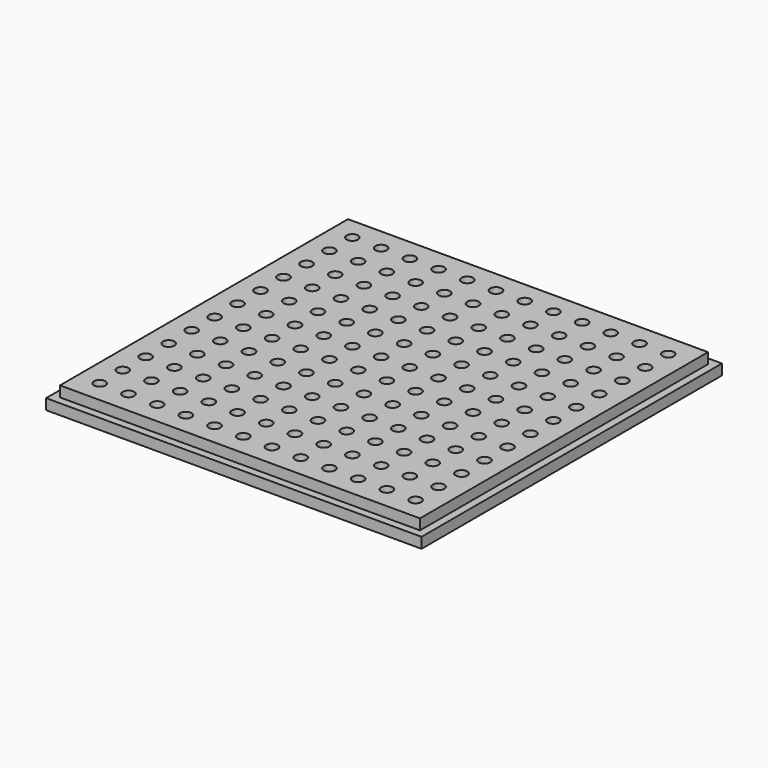
from build123d import *

# Parameters (mm, degrees)
F0_W     = 85
F0_H     = 85
F0_R     = 1.5
F1_DEPTH = 2.4
F2_W     = 85
F2_H     = 85
F3_DEPTH = 0.8
F4_W     = 81.5
F4_H     = 81.5
F4_R     = 1.3
F5_DEPTH = 2.4


with BuildPart() as f1:
    # F0 (on Top) → F1 (new body)
    with BuildSketch(Plane.XY):
        with Locations((35, 35)):
            Rectangle(F0_W, F0_H)
        with Locations((-2.5, -2.5)):
            Circle(F0_R, mode=Mode.SUBTRACT)
        with Locations((2.5, -2.5)):
            Circle(F0_R, mode=Mode.SUBTRACT)
        with Locations((-2.5, 2.5)):
            Circle(F0_R, mode=Mode.SUBTRACT)
        with Locations((2.5, 2.5)):
            Circle(F0_R, mode=Mode.SUBTRACT)
        with Locations((7.5, -2.5)):
            Circle(F0_R, mode=Mode.SUBTRACT)
        with Locations((12.5, -2.5)):
            Circle(F0_R, mode=Mode.SUBTRACT)
        with Locations((7.5, 2.5)):
            Circle(F0_R, mode=Mode.SUBTRACT)
        with Locations((12.5, 2.5)):
            Circle(F0_R, mode=Mode.SUBTRACT)
        with Locations((-2.5, 7.5)):
            Circle(F0_R, mode=Mode.SUBTRACT)
        with Locations((2.5, 7.5)):
            Circle(F0_R, mode=Mode.SUBTRACT)
        with Locations((-2.5, 12.5)):
            Circle(F0_R, mode=Mode.SUBTRACT)
        with Locations((2.5, 12.5)):
            Circle(F0_R, mode=Mode.SUBTRACT)
        with Locations((7.5, 7.5)):
            Circle(F0_R, mode=Mode.SUBTRACT)
        with Locations((12.5, 7.5)):
            Circle(F0_R, mode=Mode.SUBTRACT)
        with Locations((7.5, 12.5)):
            Circle(F0_R, mode=Mode.SUBTRACT)
        with Locations((12.5, 12.5)):
            Circle(F0_R, mode=Mode.SUBTRACT)
        with Locations((17.5, -2.5)):
            Circle(F0_R, mode=Mode.SUBTRACT)
        with Locations((22.5, -2.5)):
            Circle(F0_R, mode=Mode.SUBTRACT)
        with Locations((17.5, 2.5)):
            Circle(F0_R, mode=Mode.SUBTRACT)
        with Locations((22.5, 2.5)):
            Circle(F0_R, mode=Mode.SUBTRACT)
        with Locations((27.5, -2.5)):
            Circle(F0_R, mode=Mode.SUBTRACT)
        with Locations((32.5, -2.5)):
            Circle(F0_R, mode=Mode.SUBTRACT)
        with Locations((27.5, 2.5)):
            Circle(F0_R, mode=Mode.SUBTRACT)
        with Locations((32.5, 2.5)):
            Circle(F0_R, mode=Mode.SUBTRACT)
        with Locations((17.5, 7.5)):
            Circle(F0_R, mode=Mode.SUBTRACT)
        with Locations((22.5, 7.5)):
            Circle(F0_R, mode=Mode.SUBTRACT)
        with Locations((17.5, 12.5)):
            Circle(F0_R, mode=Mode.SUBTRACT)
        with Locations((22.5, 12.5)):
            Circle(F0_R, mode=Mode.SUBTRACT)
        with Locations((27.5, 7.5)):
            Circle(F0_R, mode=Mode.SUBTRACT)
        with Locations((32.5, 7.5)):
            Circle(F0_R, mode=Mode.SUBTRACT)
        with Locations((27.5, 12.5)):
            Circle(F0_R, mode=Mode.SUBTRACT)
        with Locations((32.5, 12.5)):
            Circle(F0_R, mode=Mode.SUBTRACT)
        with Locations((-2.5, 17.5)):
            Circle(F0_R, mode=Mode.SUBTRACT)
        with Locations((2.5, 17.5)):
            Circle(F0_R, mode=Mode.SUBTRACT)
        with Locations((-2.5, 22.5)):
            Circle(F0_R, mode=Mode.SUBTRACT)
        with Locations((2.5, 22.5)):
            Circle(F0_R, mode=Mode.SUBTRACT)
        with Locations((7.5, 17.5)):
            Circle(F0_R, mode=Mode.SUBTRACT)
        with Locations((12.5, 17.5)):
            Circle(F0_R, mode=Mode.SUBTRACT)
        with Locations((7.5, 22.5)):
            Circle(F0_R, mode=Mode.SUBTRACT)
        with Locations((12.5, 22.5)):
            Circle(F0_R, mode=Mode.SUBTRACT)
        with Locations((-2.5, 27.5)):
            Circle(F0_R, mode=Mode.SUBTRACT)
        with Locations((2.5, 27.5)):
            Circle(F0_R, mode=Mode.SUBTRACT)
        with Locations((-2.5, 32.5)):
            Circle(F0_R, mode=Mode.SUBTRACT)
        with Locations((2.5, 32.5)):
            Circle(F0_R, mode=Mode.SUBTRACT)
        with Locations((7.5, 27.5)):
            Circle(F0_R, mode=Mode.SUBTRACT)
        with Locations((12.5, 27.5)):
            Circle(F0_R, mode=Mode.SUBTRACT)
        with Locations((7.5, 32.5)):
            Circle(F0_R, mode=Mode.SUBTRACT)
        with Locations((12.5, 32.5)):
            Circle(F0_R, mode=Mode.SUBTRACT)
        with Locations((17.5, 17.5)):
            Circle(F0_R, mode=Mode.SUBTRACT)
        with Locations((22.5, 17.5)):
            Circle(F0_R, mode=Mode.SUBTRACT)
        with Locations((17.5, 22.5)):
            Circle(F0_R, mode=Mode.SUBTRACT)
        with Locations((22.5, 22.5)):
            Circle(F0_R, mode=Mode.SUBTRACT)
        with Locations((27.5, 17.5)):
            Circle(F0_R, mode=Mode.SUBTRACT)
        with Locations((32.5, 17.5)):
            Circle(F0_R, mode=Mode.SUBTRACT)
        with Locations((27.5, 22.5)):
            Circle(F0_R, mode=Mode.SUBTRACT)
        with Locations((32.5, 22.5)):
            Circle(F0_R, mode=Mode.SUBTRACT)
        with Locations((17.5, 27.5)):
            Circle(F0_R, mode=Mode.SUBTRACT)
        with Locations((22.5, 27.5)):
            Circle(F0_R, mode=Mode.SUBTRACT)
        with Locations((17.5, 32.5)):
            Circle(F0_R, mode=Mode.SUBTRACT)
        with Locations((22.5, 32.5)):
            Circle(F0_R, mode=Mode.SUBTRACT)
        with Locations((27.5, 27.5)):
            Circle(F0_R, mode=Mode.SUBTRACT)
        with Locations((32.5, 27.5)):
            Circle(F0_R, mode=Mode.SUBTRACT)
        with Locations((27.5, 32.5)):
            Circle(F0_R, mode=Mode.SUBTRACT)
        with Locations((32.5, 32.5)):
            Circle(F0_R, mode=Mode.SUBTRACT)
        with Locations((37.5, -2.5)):
            Circle(F0_R, mode=Mode.SUBTRACT)
        with Locations((42.5, -2.5)):
            Circle(F0_R, mode=Mode.SUBTRACT)
        with Locations((37.5, 2.5)):
            Circle(F0_R, mode=Mode.SUBTRACT)
        with Locations((42.5, 2.5)):
            Circle(F0_R, mode=Mode.SUBTRACT)
        with Locations((47.5, -2.5)):
            Circle(F0_R, mode=Mode.SUBTRACT)
        with Locations((52.5, -2.5)):
            Circle(F0_R, mode=Mode.SUBTRACT)
        with Locations((47.5, 2.5)):
            Circle(F0_R, mode=Mode.SUBTRACT)
        with Locations((52.5, 2.5)):
            Circle(F0_R, mode=Mode.SUBTRACT)
        with Locations((37.5, 7.5)):
            Circle(F0_R, mode=Mode.SUBTRACT)
        with Locations((42.5, 7.5)):
            Circle(F0_R, mode=Mode.SUBTRACT)
        with Locations((37.5, 12.5)):
            Circle(F0_R, mode=Mode.SUBTRACT)
        with Locations((42.5, 12.5)):
            Circle(F0_R, mode=Mode.SUBTRACT)
        with Locations((47.5, 7.5)):
            Circle(F0_R, mode=Mode.SUBTRACT)
        with Locations((52.5, 7.5)):
            Circle(F0_R, mode=Mode.SUBTRACT)
        with Locations((47.5, 12.5)):
            Circle(F0_R, mode=Mode.SUBTRACT)
        with Locations((52.5, 12.5)):
            Circle(F0_R, mode=Mode.SUBTRACT)
        with Locations((57.5, -2.5)):
            Circle(F0_R, mode=Mode.SUBTRACT)
        with Locations((62.5, -2.5)):
            Circle(F0_R, mode=Mode.SUBTRACT)
        with Locations((57.5, 2.5)):
            Circle(F0_R, mode=Mode.SUBTRACT)
        with Locations((62.5, 2.5)):
            Circle(F0_R, mode=Mode.SUBTRACT)
        with Locations((67.5, -2.5)):
            Circle(F0_R, mode=Mode.SUBTRACT)
        with Locations((72.5, -2.5)):
            Circle(F0_R, mode=Mode.SUBTRACT)
        with Locations((67.5, 2.5)):
            Circle(F0_R, mode=Mode.SUBTRACT)
        with Locations((72.5, 2.5)):
            Circle(F0_R, mode=Mode.SUBTRACT)
        with Locations((57.5, 7.5)):
            Circle(F0_R, mode=Mode.SUBTRACT)
        with Locations((62.5, 7.5)):
            Circle(F0_R, mode=Mode.SUBTRACT)
        with Locations((57.5, 12.5)):
            Circle(F0_R, mode=Mode.SUBTRACT)
        with Locations((62.5, 12.5)):
            Circle(F0_R, mode=Mode.SUBTRACT)
        with Locations((67.5, 7.5)):
            Circle(F0_R, mode=Mode.SUBTRACT)
        with Locations((72.5, 7.5)):
            Circle(F0_R, mode=Mode.SUBTRACT)
        with Locations((67.5, 12.5)):
            Circle(F0_R, mode=Mode.SUBTRACT)
        with Locations((72.5, 12.5)):
            Circle(F0_R, mode=Mode.SUBTRACT)
        with Locations((37.5, 17.5)):
            Circle(F0_R, mode=Mode.SUBTRACT)
        with Locations((42.5, 17.5)):
            Circle(F0_R, mode=Mode.SUBTRACT)
        with Locations((37.5, 22.5)):
            Circle(F0_R, mode=Mode.SUBTRACT)
        with Locations((42.5, 22.5)):
            Circle(F0_R, mode=Mode.SUBTRACT)
        with Locations((47.5, 17.5)):
            Circle(F0_R, mode=Mode.SUBTRACT)
        with Locations((52.5, 17.5)):
            Circle(F0_R, mode=Mode.SUBTRACT)
        with Locations((47.5, 22.5)):
            Circle(F0_R, mode=Mode.SUBTRACT)
        with Locations((52.5, 22.5)):
            Circle(F0_R, mode=Mode.SUBTRACT)
        with Locations((37.5, 27.5)):
            Circle(F0_R, mode=Mode.SUBTRACT)
        with Locations((42.5, 27.5)):
            Circle(F0_R, mode=Mode.SUBTRACT)
        with Locations((37.5, 32.5)):
            Circle(F0_R, mode=Mode.SUBTRACT)
        with Locations((42.5, 32.5)):
            Circle(F0_R, mode=Mode.SUBTRACT)
        with Locations((47.5, 27.5)):
            Circle(F0_R, mode=Mode.SUBTRACT)
        with Locations((52.5, 27.5)):
            Circle(F0_R, mode=Mode.SUBTRACT)
        with Locations((47.5, 32.5)):
            Circle(F0_R, mode=Mode.SUBTRACT)
        with Locations((52.5, 32.5)):
            Circle(F0_R, mode=Mode.SUBTRACT)
        with Locations((57.5, 17.5)):
            Circle(F0_R, mode=Mode.SUBTRACT)
        with Locations((62.5, 17.5)):
            Circle(F0_R, mode=Mode.SUBTRACT)
        with Locations((57.5, 22.5)):
            Circle(F0_R, mode=Mode.SUBTRACT)
        with Locations((62.5, 22.5)):
            Circle(F0_R, mode=Mode.SUBTRACT)
        with Locations((67.5, 17.5)):
            Circle(F0_R, mode=Mode.SUBTRACT)
        with Locations((72.5, 17.5)):
            Circle(F0_R, mode=Mode.SUBTRACT)
        with Locations((67.5, 22.5)):
            Circle(F0_R, mode=Mode.SUBTRACT)
        with Locations((72.5, 22.5)):
            Circle(F0_R, mode=Mode.SUBTRACT)
        with Locations((57.5, 27.5)):
            Circle(F0_R, mode=Mode.SUBTRACT)
        with Locations((62.5, 27.5)):
            Circle(F0_R, mode=Mode.SUBTRACT)
        with Locations((57.5, 32.5)):
            Circle(F0_R, mode=Mode.SUBTRACT)
        with Locations((62.5, 32.5)):
            Circle(F0_R, mode=Mode.SUBTRACT)
        with Locations((67.5, 27.5)):
            Circle(F0_R, mode=Mode.SUBTRACT)
        with Locations((72.5, 27.5)):
            Circle(F0_R, mode=Mode.SUBTRACT)
        with Locations((67.5, 32.5)):
            Circle(F0_R, mode=Mode.SUBTRACT)
        with Locations((72.5, 32.5)):
            Circle(F0_R, mode=Mode.SUBTRACT)
        with Locations((-2.5, 37.5)):
            Circle(F0_R, mode=Mode.SUBTRACT)
        with Locations((2.5, 37.5)):
            Circle(F0_R, mode=Mode.SUBTRACT)
        with Locations((-2.5, 42.5)):
            Circle(F0_R, mode=Mode.SUBTRACT)
        with Locations((2.5, 42.5)):
            Circle(F0_R, mode=Mode.SUBTRACT)
        with Locations((7.5, 37.5)):
            Circle(F0_R, mode=Mode.SUBTRACT)
        with Locations((12.5, 37.5)):
            Circle(F0_R, mode=Mode.SUBTRACT)
        with Locations((7.5, 42.5)):
            Circle(F0_R, mode=Mode.SUBTRACT)
        with Locations((12.5, 42.5)):
            Circle(F0_R, mode=Mode.SUBTRACT)
        with Locations((-2.5, 47.5)):
            Circle(F0_R, mode=Mode.SUBTRACT)
        with Locations((2.5, 47.5)):
            Circle(F0_R, mode=Mode.SUBTRACT)
        with Locations((-2.5, 52.5)):
            Circle(F0_R, mode=Mode.SUBTRACT)
        with Locations((2.5, 52.5)):
            Circle(F0_R, mode=Mode.SUBTRACT)
        with Locations((7.5, 47.5)):
            Circle(F0_R, mode=Mode.SUBTRACT)
        with Locations((12.5, 47.5)):
            Circle(F0_R, mode=Mode.SUBTRACT)
        with Locations((7.5, 52.5)):
            Circle(F0_R, mode=Mode.SUBTRACT)
        with Locations((12.5, 52.5)):
            Circle(F0_R, mode=Mode.SUBTRACT)
        with Locations((17.5, 37.5)):
            Circle(F0_R, mode=Mode.SUBTRACT)
        with Locations((22.5, 37.5)):
            Circle(F0_R, mode=Mode.SUBTRACT)
        with Locations((17.5, 42.5)):
            Circle(F0_R, mode=Mode.SUBTRACT)
        with Locations((22.5, 42.5)):
            Circle(F0_R, mode=Mode.SUBTRACT)
        with Locations((27.5, 37.5)):
            Circle(F0_R, mode=Mode.SUBTRACT)
        with Locations((32.5, 37.5)):
            Circle(F0_R, mode=Mode.SUBTRACT)
        with Locations((27.5, 42.5)):
            Circle(F0_R, mode=Mode.SUBTRACT)
        with Locations((32.5, 42.5)):
            Circle(F0_R, mode=Mode.SUBTRACT)
        with Locations((17.5, 47.5)):
            Circle(F0_R, mode=Mode.SUBTRACT)
        with Locations((22.5, 47.5)):
            Circle(F0_R, mode=Mode.SUBTRACT)
        with Locations((17.5, 52.5)):
            Circle(F0_R, mode=Mode.SUBTRACT)
        with Locations((22.5, 52.5)):
            Circle(F0_R, mode=Mode.SUBTRACT)
        with Locations((27.5, 47.5)):
            Circle(F0_R, mode=Mode.SUBTRACT)
        with Locations((32.5, 47.5)):
            Circle(F0_R, mode=Mode.SUBTRACT)
        with Locations((27.5, 52.5)):
            Circle(F0_R, mode=Mode.SUBTRACT)
        with Locations((32.5, 52.5)):
            Circle(F0_R, mode=Mode.SUBTRACT)
        with Locations((-2.5, 57.5)):
            Circle(F0_R, mode=Mode.SUBTRACT)
        with Locations((2.5, 57.5)):
            Circle(F0_R, mode=Mode.SUBTRACT)
        with Locations((-2.5, 62.5)):
            Circle(F0_R, mode=Mode.SUBTRACT)
        with Locations((2.5, 62.5)):
            Circle(F0_R, mode=Mode.SUBTRACT)
        with Locations((7.5, 57.5)):
            Circle(F0_R, mode=Mode.SUBTRACT)
        with Locations((12.5, 57.5)):
            Circle(F0_R, mode=Mode.SUBTRACT)
        with Locations((7.5, 62.5)):
            Circle(F0_R, mode=Mode.SUBTRACT)
        with Locations((12.5, 62.5)):
            Circle(F0_R, mode=Mode.SUBTRACT)
        with Locations((-2.5, 67.5)):
            Circle(F0_R, mode=Mode.SUBTRACT)
        with Locations((2.5, 67.5)):
            Circle(F0_R, mode=Mode.SUBTRACT)
        with Locations((-2.5, 72.5)):
            Circle(F0_R, mode=Mode.SUBTRACT)
        with Locations((2.5, 72.5)):
            Circle(F0_R, mode=Mode.SUBTRACT)
        with Locations((7.5, 67.5)):
            Circle(F0_R, mode=Mode.SUBTRACT)
        with Locations((12.5, 67.5)):
            Circle(F0_R, mode=Mode.SUBTRACT)
        with Locations((7.5, 72.5)):
            Circle(F0_R, mode=Mode.SUBTRACT)
        with Locations((12.5, 72.5)):
            Circle(F0_R, mode=Mode.SUBTRACT)
        with Locations((17.5, 57.5)):
            Circle(F0_R, mode=Mode.SUBTRACT)
        with Locations((22.5, 57.5)):
            Circle(F0_R, mode=Mode.SUBTRACT)
        with Locations((17.5, 62.5)):
            Circle(F0_R, mode=Mode.SUBTRACT)
        with Locations((22.5, 62.5)):
            Circle(F0_R, mode=Mode.SUBTRACT)
        with Locations((27.5, 57.5)):
            Circle(F0_R, mode=Mode.SUBTRACT)
        with Locations((32.5, 57.5)):
            Circle(F0_R, mode=Mode.SUBTRACT)
        with Locations((27.5, 62.5)):
            Circle(F0_R, mode=Mode.SUBTRACT)
        with Locations((32.5, 62.5)):
            Circle(F0_R, mode=Mode.SUBTRACT)
        with Locations((17.5, 67.5)):
            Circle(F0_R, mode=Mode.SUBTRACT)
        with Locations((22.5, 67.5)):
            Circle(F0_R, mode=Mode.SUBTRACT)
        with Locations((17.5, 72.5)):
            Circle(F0_R, mode=Mode.SUBTRACT)
        with Locations((22.5, 72.5)):
            Circle(F0_R, mode=Mode.SUBTRACT)
        with Locations((27.5, 67.5)):
            Circle(F0_R, mode=Mode.SUBTRACT)
        with Locations((32.5, 67.5)):
            Circle(F0_R, mode=Mode.SUBTRACT)
        with Locations((27.5, 72.5)):
            Circle(F0_R, mode=Mode.SUBTRACT)
        with Locations((32.5, 72.5)):
            Circle(F0_R, mode=Mode.SUBTRACT)
        with Locations((37.5, 37.5)):
            Circle(F0_R, mode=Mode.SUBTRACT)
        with Locations((42.5, 37.5)):
            Circle(F0_R, mode=Mode.SUBTRACT)
        with Locations((37.5, 42.5)):
            Circle(F0_R, mode=Mode.SUBTRACT)
        with Locations((42.5, 42.5)):
            Circle(F0_R, mode=Mode.SUBTRACT)
        with Locations((47.5, 37.5)):
            Circle(F0_R, mode=Mode.SUBTRACT)
        with Locations((52.5, 37.5)):
            Circle(F0_R, mode=Mode.SUBTRACT)
        with Locations((47.5, 42.5)):
            Circle(F0_R, mode=Mode.SUBTRACT)
        with Locations((52.5, 42.5)):
            Circle(F0_R, mode=Mode.SUBTRACT)
        with Locations((37.5, 47.5)):
            Circle(F0_R, mode=Mode.SUBTRACT)
        with Locations((42.5, 47.5)):
            Circle(F0_R, mode=Mode.SUBTRACT)
        with Locations((37.5, 52.5)):
            Circle(F0_R, mode=Mode.SUBTRACT)
        with Locations((42.5, 52.5)):
            Circle(F0_R, mode=Mode.SUBTRACT)
        with Locations((47.5, 47.5)):
            Circle(F0_R, mode=Mode.SUBTRACT)
        with Locations((52.5, 47.5)):
            Circle(F0_R, mode=Mode.SUBTRACT)
        with Locations((47.5, 52.5)):
            Circle(F0_R, mode=Mode.SUBTRACT)
        with Locations((52.5, 52.5)):
            Circle(F0_R, mode=Mode.SUBTRACT)
        with Locations((57.5, 37.5)):
            Circle(F0_R, mode=Mode.SUBTRACT)
        with Locations((62.5, 37.5)):
            Circle(F0_R, mode=Mode.SUBTRACT)
        with Locations((57.5, 42.5)):
            Circle(F0_R, mode=Mode.SUBTRACT)
        with Locations((62.5, 42.5)):
            Circle(F0_R, mode=Mode.SUBTRACT)
        with Locations((67.5, 37.5)):
            Circle(F0_R, mode=Mode.SUBTRACT)
        with Locations((72.5, 37.5)):
            Circle(F0_R, mode=Mode.SUBTRACT)
        with Locations((67.5, 42.5)):
            Circle(F0_R, mode=Mode.SUBTRACT)
        with Locations((72.5, 42.5)):
            Circle(F0_R, mode=Mode.SUBTRACT)
        with Locations((57.5, 47.5)):
            Circle(F0_R, mode=Mode.SUBTRACT)
        with Locations((62.5, 47.5)):
            Circle(F0_R, mode=Mode.SUBTRACT)
        with Locations((57.5, 52.5)):
            Circle(F0_R, mode=Mode.SUBTRACT)
        with Locations((62.5, 52.5)):
            Circle(F0_R, mode=Mode.SUBTRACT)
        with Locations((67.5, 47.5)):
            Circle(F0_R, mode=Mode.SUBTRACT)
        with Locations((72.5, 47.5)):
            Circle(F0_R, mode=Mode.SUBTRACT)
        with Locations((67.5, 52.5)):
            Circle(F0_R, mode=Mode.SUBTRACT)
        with Locations((72.5, 52.5)):
            Circle(F0_R, mode=Mode.SUBTRACT)
        with Locations((37.5, 57.5)):
            Circle(F0_R, mode=Mode.SUBTRACT)
        with Locations((42.5, 57.5)):
            Circle(F0_R, mode=Mode.SUBTRACT)
        with Locations((37.5, 62.5)):
            Circle(F0_R, mode=Mode.SUBTRACT)
        with Locations((42.5, 62.5)):
            Circle(F0_R, mode=Mode.SUBTRACT)
        with Locations((47.5, 57.5)):
            Circle(F0_R, mode=Mode.SUBTRACT)
        with Locations((52.5, 57.5)):
            Circle(F0_R, mode=Mode.SUBTRACT)
        with Locations((47.5, 62.5)):
            Circle(F0_R, mode=Mode.SUBTRACT)
        with Locations((52.5, 62.5)):
            Circle(F0_R, mode=Mode.SUBTRACT)
        with Locations((37.5, 67.5)):
            Circle(F0_R, mode=Mode.SUBTRACT)
        with Locations((42.5, 67.5)):
            Circle(F0_R, mode=Mode.SUBTRACT)
        with Locations((37.5, 72.5)):
            Circle(F0_R, mode=Mode.SUBTRACT)
        with Locations((42.5, 72.5)):
            Circle(F0_R, mode=Mode.SUBTRACT)
        with Locations((47.5, 67.5)):
            Circle(F0_R, mode=Mode.SUBTRACT)
        with Locations((52.5, 67.5)):
            Circle(F0_R, mode=Mode.SUBTRACT)
        with Locations((47.5, 72.5)):
            Circle(F0_R, mode=Mode.SUBTRACT)
        with Locations((52.5, 72.5)):
            Circle(F0_R, mode=Mode.SUBTRACT)
        with Locations((57.5, 57.5)):
            Circle(F0_R, mode=Mode.SUBTRACT)
        with Locations((62.5, 57.5)):
            Circle(F0_R, mode=Mode.SUBTRACT)
        with Locations((57.5, 62.5)):
            Circle(F0_R, mode=Mode.SUBTRACT)
        with Locations((62.5, 62.5)):
            Circle(F0_R, mode=Mode.SUBTRACT)
        with Locations((67.5, 57.5)):
            Circle(F0_R, mode=Mode.SUBTRACT)
        with Locations((72.5, 57.5)):
            Circle(F0_R, mode=Mode.SUBTRACT)
        with Locations((67.5, 62.5)):
            Circle(F0_R, mode=Mode.SUBTRACT)
        with Locations((72.5, 62.5)):
            Circle(F0_R, mode=Mode.SUBTRACT)
        with Locations((57.5, 67.5)):
            Circle(F0_R, mode=Mode.SUBTRACT)
        with Locations((62.5, 67.5)):
            Circle(F0_R, mode=Mode.SUBTRACT)
        with Locations((57.5, 72.5)):
            Circle(F0_R, mode=Mode.SUBTRACT)
        with Locations((62.5, 72.5)):
            Circle(F0_R, mode=Mode.SUBTRACT)
        with Locations((67.5, 67.5)):
            Circle(F0_R, mode=Mode.SUBTRACT)
        with Locations((72.5, 67.5)):
            Circle(F0_R, mode=Mode.SUBTRACT)
        with Locations((67.5, 72.5)):
            Circle(F0_R, mode=Mode.SUBTRACT)
        with Locations((72.5, 72.5)):
            Circle(F0_R, mode=Mode.SUBTRACT)
    extrude(amount=F1_DEPTH)

    # F2 (on face) → F3 (join)
    with BuildSketch(Plane.XY.offset(2.4)):
        with Locations((35, 35)):
            Rectangle(F2_W, F2_H)
    extrude(amount=-F3_DEPTH)

    # F4 (on face) → F5 (join)
    with BuildSketch(Plane.XY.offset(2.4)):
        with Locations((35, 35)):
            Rectangle(F4_W, F4_H)
        with Locations((-0.75, -0.75)):
            Circle(F4_R, mode=Mode.SUBTRACT)
        with Locations((5.75, -0.75)):
            Circle(F4_R, mode=Mode.SUBTRACT)
        with Locations((12.25, -0.75)):
            Circle(F4_R, mode=Mode.SUBTRACT)
        with Locations((-0.75, 5.75)):
            Circle(F4_R, mode=Mode.SUBTRACT)
        with Locations((-0.75, 12.25)):
            Circle(F4_R, mode=Mode.SUBTRACT)
        with Locations((5.75, 5.75)):
            Circle(F4_R, mode=Mode.SUBTRACT)
        with Locations((12.25, 5.75)):
            Circle(F4_R, mode=Mode.SUBTRACT)
        with Locations((5.75, 12.25)):
            Circle(F4_R, mode=Mode.SUBTRACT)
        with Locations((12.25, 12.25)):
            Circle(F4_R, mode=Mode.SUBTRACT)
        with Locations((18.75, -0.75)):
            Circle(F4_R, mode=Mode.SUBTRACT)
        with Locations((25.25, -0.75)):
            Circle(F4_R, mode=Mode.SUBTRACT)
        with Locations((31.75, -0.75)):
            Circle(F4_R, mode=Mode.SUBTRACT)
        with Locations((18.75, 5.75)):
            Circle(F4_R, mode=Mode.SUBTRACT)
        with Locations((18.75, 12.25)):
            Circle(F4_R, mode=Mode.SUBTRACT)
        with Locations((25.25, 5.75)):
            Circle(F4_R, mode=Mode.SUBTRACT)
        with Locations((31.75, 5.75)):
            Circle(F4_R, mode=Mode.SUBTRACT)
        with Locations((25.25, 12.25)):
            Circle(F4_R, mode=Mode.SUBTRACT)
        with Locations((31.75, 12.25)):
            Circle(F4_R, mode=Mode.SUBTRACT)
        with Locations((-0.75, 18.75)):
            Circle(F4_R, mode=Mode.SUBTRACT)
        with Locations((5.75, 18.75)):
            Circle(F4_R, mode=Mode.SUBTRACT)
        with Locations((12.25, 18.75)):
            Circle(F4_R, mode=Mode.SUBTRACT)
        with Locations((-0.75, 25.25)):
            Circle(F4_R, mode=Mode.SUBTRACT)
        with Locations((-0.75, 31.75)):
            Circle(F4_R, mode=Mode.SUBTRACT)
        with Locations((5.75, 25.25)):
            Circle(F4_R, mode=Mode.SUBTRACT)
        with Locations((12.25, 25.25)):
            Circle(F4_R, mode=Mode.SUBTRACT)
        with Locations((5.75, 31.75)):
            Circle(F4_R, mode=Mode.SUBTRACT)
        with Locations((12.25, 31.75)):
            Circle(F4_R, mode=Mode.SUBTRACT)
        with Locations((18.75, 18.75)):
            Circle(F4_R, mode=Mode.SUBTRACT)
        with Locations((25.25, 18.75)):
            Circle(F4_R, mode=Mode.SUBTRACT)
        with Locations((31.75, 18.75)):
            Circle(F4_R, mode=Mode.SUBTRACT)
        with Locations((18.75, 25.25)):
            Circle(F4_R, mode=Mode.SUBTRACT)
        with Locations((18.75, 31.75)):
            Circle(F4_R, mode=Mode.SUBTRACT)
        with Locations((25.25, 25.25)):
            Circle(F4_R, mode=Mode.SUBTRACT)
        with Locations((31.75, 25.25)):
            Circle(F4_R, mode=Mode.SUBTRACT)
        with Locations((25.25, 31.75)):
            Circle(F4_R, mode=Mode.SUBTRACT)
        with Locations((31.75, 31.75)):
            Circle(F4_R, mode=Mode.SUBTRACT)
        with Locations((38.25, -0.75)):
            Circle(F4_R, mode=Mode.SUBTRACT)
        with Locations((44.75, -0.75)):
            Circle(F4_R, mode=Mode.SUBTRACT)
        with Locations((51.25, -0.75)):
            Circle(F4_R, mode=Mode.SUBTRACT)
        with Locations((38.25, 5.75)):
            Circle(F4_R, mode=Mode.SUBTRACT)
        with Locations((44.75, 5.75)):
            Circle(F4_R, mode=Mode.SUBTRACT)
        with Locations((38.25, 12.25)):
            Circle(F4_R, mode=Mode.SUBTRACT)
        with Locations((44.75, 12.25)):
            Circle(F4_R, mode=Mode.SUBTRACT)
        with Locations((51.25, 5.75)):
            Circle(F4_R, mode=Mode.SUBTRACT)
        with Locations((51.25, 12.25)):
            Circle(F4_R, mode=Mode.SUBTRACT)
        with Locations((57.75, -0.75)):
            Circle(F4_R, mode=Mode.SUBTRACT)
        with Locations((64.25, -0.75)):
            Circle(F4_R, mode=Mode.SUBTRACT)
        with Locations((70.75, -0.75)):
            Circle(F4_R, mode=Mode.SUBTRACT)
        with Locations((57.75, 5.75)):
            Circle(F4_R, mode=Mode.SUBTRACT)
        with Locations((64.25, 5.75)):
            Circle(F4_R, mode=Mode.SUBTRACT)
        with Locations((57.75, 12.25)):
            Circle(F4_R, mode=Mode.SUBTRACT)
        with Locations((64.25, 12.25)):
            Circle(F4_R, mode=Mode.SUBTRACT)
        with Locations((70.75, 5.75)):
            Circle(F4_R, mode=Mode.SUBTRACT)
        with Locations((70.75, 12.25)):
            Circle(F4_R, mode=Mode.SUBTRACT)
        with Locations((38.25, 18.75)):
            Circle(F4_R, mode=Mode.SUBTRACT)
        with Locations((44.75, 18.75)):
            Circle(F4_R, mode=Mode.SUBTRACT)
        with Locations((51.25, 18.75)):
            Circle(F4_R, mode=Mode.SUBTRACT)
        with Locations((38.25, 25.25)):
            Circle(F4_R, mode=Mode.SUBTRACT)
        with Locations((44.75, 25.25)):
            Circle(F4_R, mode=Mode.SUBTRACT)
        with Locations((38.25, 31.75)):
            Circle(F4_R, mode=Mode.SUBTRACT)
        with Locations((44.75, 31.75)):
            Circle(F4_R, mode=Mode.SUBTRACT)
        with Locations((51.25, 25.25)):
            Circle(F4_R, mode=Mode.SUBTRACT)
        with Locations((51.25, 31.75)):
            Circle(F4_R, mode=Mode.SUBTRACT)
        with Locations((57.75, 18.75)):
            Circle(F4_R, mode=Mode.SUBTRACT)
        with Locations((64.25, 18.75)):
            Circle(F4_R, mode=Mode.SUBTRACT)
        with Locations((70.75, 18.75)):
            Circle(F4_R, mode=Mode.SUBTRACT)
        with Locations((57.75, 25.25)):
            Circle(F4_R, mode=Mode.SUBTRACT)
        with Locations((64.25, 25.25)):
            Circle(F4_R, mode=Mode.SUBTRACT)
        with Locations((57.75, 31.75)):
            Circle(F4_R, mode=Mode.SUBTRACT)
        with Locations((64.25, 31.75)):
            Circle(F4_R, mode=Mode.SUBTRACT)
        with Locations((70.75, 25.25)):
            Circle(F4_R, mode=Mode.SUBTRACT)
        with Locations((70.75, 31.75)):
            Circle(F4_R, mode=Mode.SUBTRACT)
        with Locations((-0.75, 38.25)):
            Circle(F4_R, mode=Mode.SUBTRACT)
        with Locations((-0.75, 44.75)):
            Circle(F4_R, mode=Mode.SUBTRACT)
        with Locations((5.75, 38.25)):
            Circle(F4_R, mode=Mode.SUBTRACT)
        with Locations((12.25, 38.25)):
            Circle(F4_R, mode=Mode.SUBTRACT)
        with Locations((5.75, 44.75)):
            Circle(F4_R, mode=Mode.SUBTRACT)
        with Locations((12.25, 44.75)):
            Circle(F4_R, mode=Mode.SUBTRACT)
        with Locations((-0.75, 51.25)):
            Circle(F4_R, mode=Mode.SUBTRACT)
        with Locations((5.75, 51.25)):
            Circle(F4_R, mode=Mode.SUBTRACT)
        with Locations((12.25, 51.25)):
            Circle(F4_R, mode=Mode.SUBTRACT)
        with Locations((18.75, 38.25)):
            Circle(F4_R, mode=Mode.SUBTRACT)
        with Locations((18.75, 44.75)):
            Circle(F4_R, mode=Mode.SUBTRACT)
        with Locations((25.25, 38.25)):
            Circle(F4_R, mode=Mode.SUBTRACT)
        with Locations((31.75, 38.25)):
            Circle(F4_R, mode=Mode.SUBTRACT)
        with Locations((25.25, 44.75)):
            Circle(F4_R, mode=Mode.SUBTRACT)
        with Locations((31.75, 44.75)):
            Circle(F4_R, mode=Mode.SUBTRACT)
        with Locations((18.75, 51.25)):
            Circle(F4_R, mode=Mode.SUBTRACT)
        with Locations((25.25, 51.25)):
            Circle(F4_R, mode=Mode.SUBTRACT)
        with Locations((31.75, 51.25)):
            Circle(F4_R, mode=Mode.SUBTRACT)
        with Locations((-0.75, 57.75)):
            Circle(F4_R, mode=Mode.SUBTRACT)
        with Locations((-0.75, 64.25)):
            Circle(F4_R, mode=Mode.SUBTRACT)
        with Locations((5.75, 57.75)):
            Circle(F4_R, mode=Mode.SUBTRACT)
        with Locations((12.25, 57.75)):
            Circle(F4_R, mode=Mode.SUBTRACT)
        with Locations((5.75, 64.25)):
            Circle(F4_R, mode=Mode.SUBTRACT)
        with Locations((12.25, 64.25)):
            Circle(F4_R, mode=Mode.SUBTRACT)
        with Locations((-0.75, 70.75)):
            Circle(F4_R, mode=Mode.SUBTRACT)
        with Locations((5.75, 70.75)):
            Circle(F4_R, mode=Mode.SUBTRACT)
        with Locations((12.25, 70.75)):
            Circle(F4_R, mode=Mode.SUBTRACT)
        with Locations((18.75, 57.75)):
            Circle(F4_R, mode=Mode.SUBTRACT)
        with Locations((18.75, 64.25)):
            Circle(F4_R, mode=Mode.SUBTRACT)
        with Locations((25.25, 57.75)):
            Circle(F4_R, mode=Mode.SUBTRACT)
        with Locations((31.75, 57.75)):
            Circle(F4_R, mode=Mode.SUBTRACT)
        with Locations((25.25, 64.25)):
            Circle(F4_R, mode=Mode.SUBTRACT)
        with Locations((31.75, 64.25)):
            Circle(F4_R, mode=Mode.SUBTRACT)
        with Locations((18.75, 70.75)):
            Circle(F4_R, mode=Mode.SUBTRACT)
        with Locations((25.25, 70.75)):
            Circle(F4_R, mode=Mode.SUBTRACT)
        with Locations((31.75, 70.75)):
            Circle(F4_R, mode=Mode.SUBTRACT)
        with Locations((38.25, 38.25)):
            Circle(F4_R, mode=Mode.SUBTRACT)
        with Locations((44.75, 38.25)):
            Circle(F4_R, mode=Mode.SUBTRACT)
        with Locations((38.25, 44.75)):
            Circle(F4_R, mode=Mode.SUBTRACT)
        with Locations((44.75, 44.75)):
            Circle(F4_R, mode=Mode.SUBTRACT)
        with Locations((51.25, 38.25)):
            Circle(F4_R, mode=Mode.SUBTRACT)
        with Locations((51.25, 44.75)):
            Circle(F4_R, mode=Mode.SUBTRACT)
        with Locations((38.25, 51.25)):
            Circle(F4_R, mode=Mode.SUBTRACT)
        with Locations((44.75, 51.25)):
            Circle(F4_R, mode=Mode.SUBTRACT)
        with Locations((51.25, 51.25)):
            Circle(F4_R, mode=Mode.SUBTRACT)
        with Locations((57.75, 38.25)):
            Circle(F4_R, mode=Mode.SUBTRACT)
        with Locations((64.25, 38.25)):
            Circle(F4_R, mode=Mode.SUBTRACT)
        with Locations((57.75, 44.75)):
            Circle(F4_R, mode=Mode.SUBTRACT)
        with Locations((64.25, 44.75)):
            Circle(F4_R, mode=Mode.SUBTRACT)
        with Locations((70.75, 38.25)):
            Circle(F4_R, mode=Mode.SUBTRACT)
        with Locations((70.75, 44.75)):
            Circle(F4_R, mode=Mode.SUBTRACT)
        with Locations((57.75, 51.25)):
            Circle(F4_R, mode=Mode.SUBTRACT)
        with Locations((64.25, 51.25)):
            Circle(F4_R, mode=Mode.SUBTRACT)
        with Locations((70.75, 51.25)):
            Circle(F4_R, mode=Mode.SUBTRACT)
        with Locations((38.25, 57.75)):
            Circle(F4_R, mode=Mode.SUBTRACT)
        with Locations((44.75, 57.75)):
            Circle(F4_R, mode=Mode.SUBTRACT)
        with Locations((38.25, 64.25)):
            Circle(F4_R, mode=Mode.SUBTRACT)
        with Locations((44.75, 64.25)):
            Circle(F4_R, mode=Mode.SUBTRACT)
        with Locations((51.25, 57.75)):
            Circle(F4_R, mode=Mode.SUBTRACT)
        with Locations((51.25, 64.25)):
            Circle(F4_R, mode=Mode.SUBTRACT)
        with Locations((38.25, 70.75)):
            Circle(F4_R, mode=Mode.SUBTRACT)
        with Locations((44.75, 70.75)):
            Circle(F4_R, mode=Mode.SUBTRACT)
        with Locations((51.25, 70.75)):
            Circle(F4_R, mode=Mode.SUBTRACT)
        with Locations((57.75, 57.75)):
            Circle(F4_R, mode=Mode.SUBTRACT)
        with Locations((64.25, 57.75)):
            Circle(F4_R, mode=Mode.SUBTRACT)
        with Locations((57.75, 64.25)):
            Circle(F4_R, mode=Mode.SUBTRACT)
        with Locations((64.25, 64.25)):
            Circle(F4_R, mode=Mode.SUBTRACT)
        with Locations((70.75, 57.75)):
            Circle(F4_R, mode=Mode.SUBTRACT)
        with Locations((70.75, 64.25)):
            Circle(F4_R, mode=Mode.SUBTRACT)
        with Locations((57.75, 70.75)):
            Circle(F4_R, mode=Mode.SUBTRACT)
        with Locations((64.25, 70.75)):
            Circle(F4_R, mode=Mode.SUBTRACT)
        with Locations((70.75, 70.75)):
            Circle(F4_R, mode=Mode.SUBTRACT)
    extrude(amount=F5_DEPTH)


solid = f1.part
